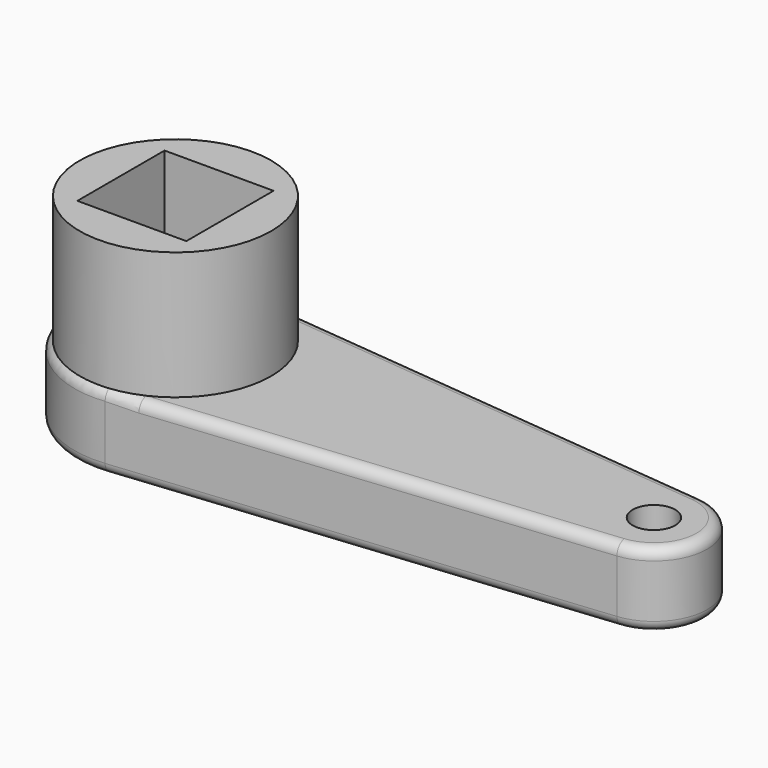
from build123d import *

# Parameters (mm, degrees)
F1_DEPTH = 7
F2_R     = 2
F3_DEPTH = 25
F2_R_2   = 9
F2_W     = 10.25
F2_H     = 10.25
F4_DEPTH = 12
F5_R     = 1


with BuildPart() as f1:
    # F0 (on Top) → F1 (new body)
    with BuildSketch(Plane.XY):
        with BuildLine():
            Line((45.5, 4.974937), (0.95, 9.452381))
            ThreePointArc((0.95, 9.452381), (-9.5, 0), (0.95, -9.452381))
            Line((0.95, -9.452381), (45.5, -4.974937))
            ThreePointArc((45.5, -4.974937), (50, 0), (45.5, 4.974937))
        make_face()
        with BuildLine():
            Line((45.5, 4.974937), (0.95, 9.452381))
            ThreePointArc((0.95, 9.452381), (-9.5, 0), (0.95, -9.452381))
            Line((0.95, -9.452381), (45.5, -4.974937))
            ThreePointArc((45.5, -4.974937), (50, 0), (45.5, 4.974937))
        make_face()
    extrude(amount=F1_DEPTH)

    # F2 (on face) → F3 (cut)
    with BuildSketch(Plane.XY.offset(7)):
        with Locations((45, 0)):
            Circle(F2_R)
    extrude(amount=-F3_DEPTH, mode=Mode.SUBTRACT)

    # F2 (on face) → F4 (join)
    with BuildSketch(Plane.XY.offset(7)):
        Circle(F2_R_2)
        Rectangle(F2_W, F2_H, mode=Mode.SUBTRACT)
    extrude(amount=F4_DEPTH)

    # F5
    f5_edges = [f1.edges().sort_by_distance(p)[0] for p in [
        (23.225, -7.213659, 0),
        (23.225, -7.213659, 7),
    ]]
    fillet(f5_edges, radius=F5_R)


solid = f1.part
